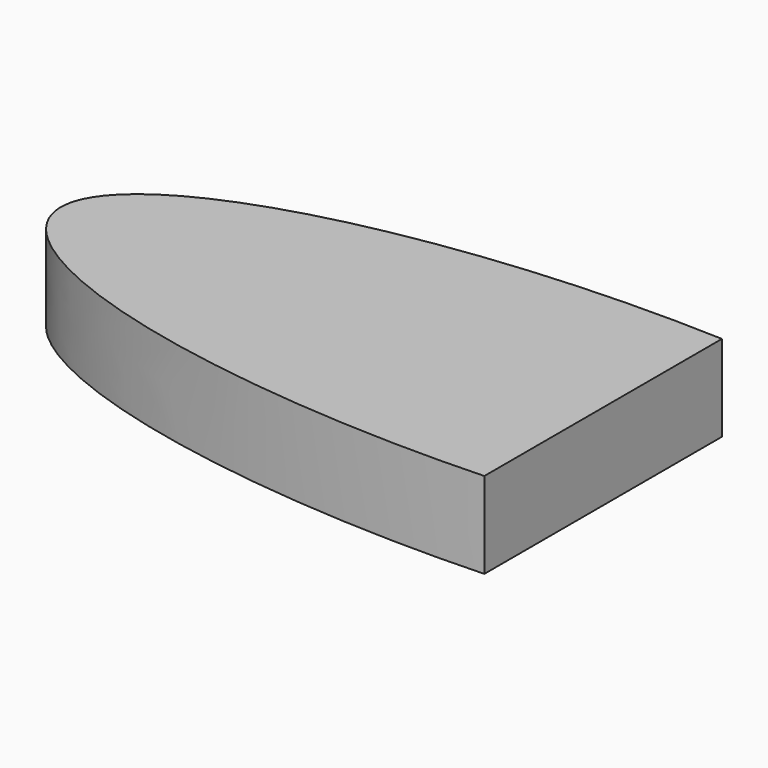
from build123d import *

# Parameters (mm, degrees)
F1_DEPTH = 114.3


with BuildPart() as f1:
    # F0 (on Top) → F1 (new body)
    with BuildSketch(Plane.XY):
        with BuildLine():
            Line((-69.137514, -172.637141), (-69.137514, 221.190195))
            add(Edge.make_bspline(
                [(-69.137514, 221.190195), (-788.364233, 250.315003), (-788.364233, 24.276527), (-788.364233, -201.761949), (-69.137514, -172.637141)],
                knots=[1.441588, 1.441588, 1.441588, 3.141593, 3.141593, 4.841597, 4.841597, 4.841597], degree=2, weights=[1, 0.659981, 1, 0.659981, 1]))
        make_face()
    extrude(amount=F1_DEPTH)


solid = f1.part
